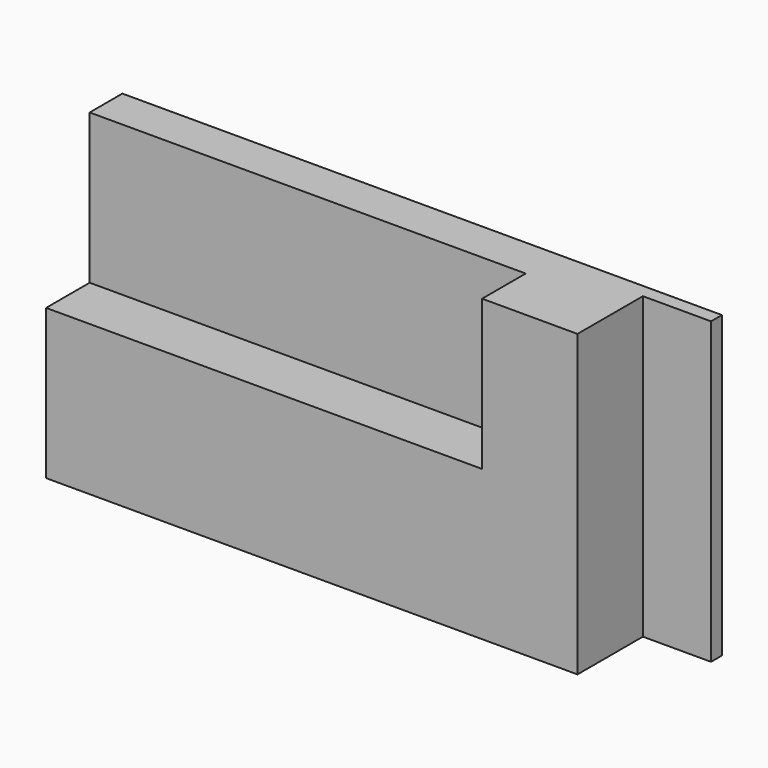
from build123d import *

# Parameters (mm, degrees)
F0_W     = 139.7
F0_H     = 69.85
F1_DEPTH = 22.225
F2_W     = 101.6
F2_H     = 34.925
F3_DEPTH = 12.7
F4_W     = 15.875
F4_H     = 19.05
F5_DEPTH = 127


with BuildPart() as f1:
    # F0 (on Front) → F1 (new body)
    with BuildSketch(Plane.XZ):
        Rectangle(F0_W, F0_H)
    extrude(amount=F1_DEPTH)

    # F2 (on face) → F3 (cut)
    with BuildSketch(Plane.XZ.offset(22.225)):
        with Locations((-19.05, 17.4625)):
            Rectangle(F2_W, F2_H)
    extrude(amount=-F3_DEPTH, mode=Mode.SUBTRACT)

    # F4 (on face) → F5 (cut)
    with BuildSketch(Plane.XY.offset(34.925)):
        with Locations((61.9125, -12.7)):
            Rectangle(F4_W, F4_H)
    extrude(amount=-F5_DEPTH, mode=Mode.SUBTRACT)


solid = f1.part
